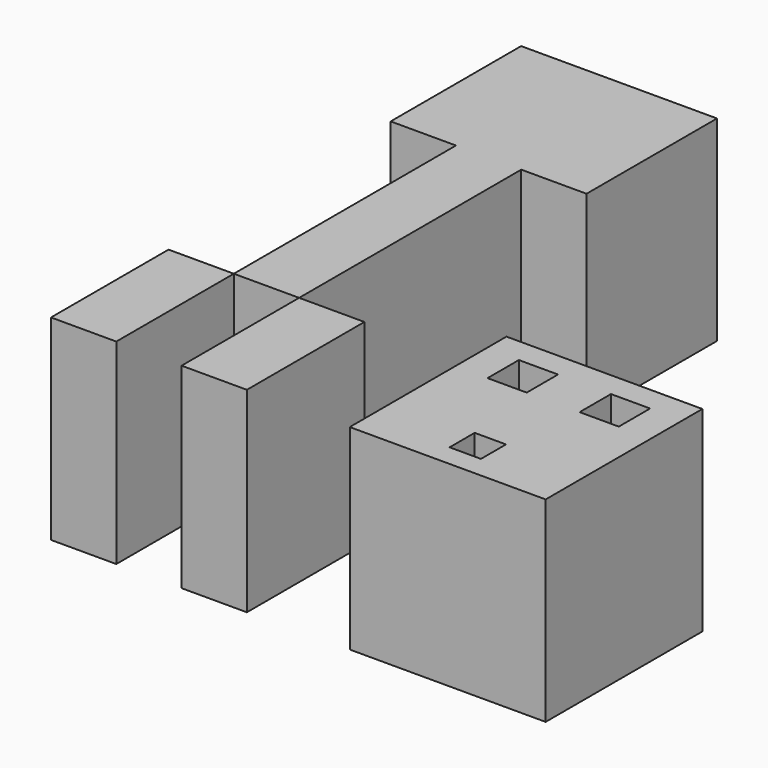
from build123d import *

# Parameters (mm, degrees)
F0_W      = 25.4
F0_H      = 25.4
F1_DEPTH  = 25.4
F2_W      = 4.064
F2_H      = 4.064
F2_W_2    = 5.08
F2_H_2    = 5.077821
F2_H_3    = 5.08257
F3_DEPTH  = 5.08
F4_W      = 8.466667
F4_H      = 19.05
F5_DEPTH  = 25.4
F6_DEPTH  = 25.4
F8_DEPTH  = 5.08
F8_FACE_W = 5.08
F8_FACE_H = 8.89
F9_DEPTH  = 0.508


with BuildPart() as f1:
    # F0 (on Top) → F1 (new body)
    with BuildSketch(Plane.XY):
        Rectangle(F0_W, F0_H)
    extrude(amount=F1_DEPTH)

    # F2 (on face) → F3 (cut)
    with BuildSketch(Plane.XY.offset(25.4)):
        with Locations((0, -7.82259)):
            Rectangle(F2_W, F2_H)
        with Locations((-5.970961, 6.93054)):
            Rectangle(F2_W_2, F2_H_2)
        with Locations((5.969, 6.932915)):
            Rectangle(F2_W_2, F2_H_3)
    extrude(amount=-F3_DEPTH, mode=Mode.SUBTRACT)


with BuildPart() as f5:
    # F4 (on Top) → F5 (new body)
    with BuildSketch(Plane.XY):
        with Locations((-30.171395, -3.303093)):
            Rectangle(F4_W, F4_H)
        with Locations((-47.104729, -3.303093)):
            Rectangle(F4_W, F4_H)
        Polygon((-25.938062, 63.371907), (-51.338062, 63.371907), (-51.338062, 44.321907), (-51.338062, 42.224824), (-42.871395, 42.224824), (-34.404729, 42.224824), (-25.938062, 42.224824), align=None)
        Polygon((-34.404729, 6.221907), (-34.404729, 42.224824), (-42.871395, 42.224824), (-42.871395, 6.221907), (-38.638062, 6.221907), align=None)
    extrude(amount=F5_DEPTH)


with BuildPart() as f6:
    # F4 (on Top) → F6 (new body)
    with BuildSketch(Plane.XY):
        with Locations((-30.171395, -3.303093)):
            Rectangle(F4_W, F4_H)
        with Locations((-47.104729, -3.303093)):
            Rectangle(F4_W, F4_H)
        Polygon((-25.938062, 63.371907), (-51.338062, 63.371907), (-51.338062, 44.321907), (-51.338062, 42.224824), (-42.871395, 42.224824), (-34.404729, 42.224824), (-25.938062, 42.224824), align=None)
        Polygon((-34.404729, 6.221907), (-34.404729, 42.224824), (-42.871395, 42.224824), (-42.871395, 6.221907), (-38.638062, 6.221907), align=None)
    extrude(amount=F6_DEPTH)


with BuildPart() as f8_tool:
    # F7 (on face) → F8 (new body)
    with BuildSketch(Plane(origin=(-51.338062, 0, 0), x_dir=(0, -1, 0), z_dir=(-1, 0, 0))):
        Polygon((-54.024707, 17.145), (-54.024707, 8.255), (-52.500707, 8.255), (-52.500707, 6.477), (-43.166304, 6.477), (-43.166304, 8.255), (-44.690304, 8.255), (-44.690304, 17.145), (-43.166304, 17.145), (-43.166304, 18.923), (-52.500707, 18.923), (-52.500707, 17.145), align=None)
    extrude(amount=-F8_DEPTH)


with BuildPart() as f5_1:
    add(f5.part)

    # F8: cut by f8_tool
    add(f8_tool.part, mode=Mode.SUBTRACT)


with BuildPart() as f6_1:
    add(f6.part)

    # F8: cut by f8_tool
    add(f8_tool.part, mode=Mode.SUBTRACT)


with BuildPart() as f9:
    # F8_face (on face) → F9 (new body)
    with BuildSketch(Plane(origin=(-48.798062, 54.024707, 12.7), x_dir=(1, 0, 0), z_dir=(0, -1, 0))):
        Rectangle(F8_FACE_W, F8_FACE_H)
    extrude(amount=F9_DEPTH)


solid = Compound([f1.part, f5_1.part, f6_1.part, f9.part])
